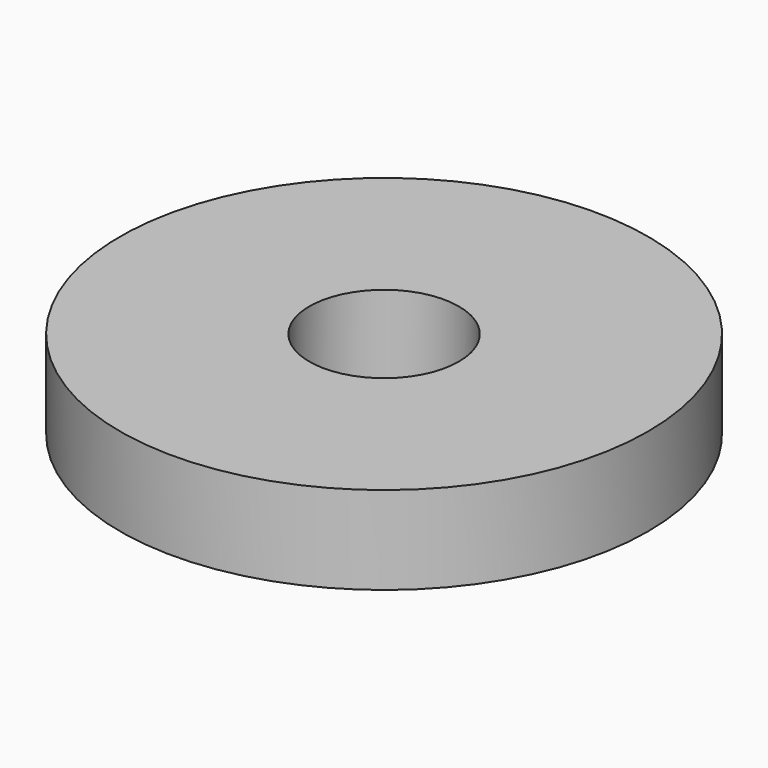
from build123d import *

# Parameters (mm, degrees)
SKETCH_R   = 6
SKETCH_R_2 = 1.7
PAD_DEPTH  = 2


with BuildPart() as part:
    # Sketch → Pad (new body)
    with BuildSketch(Plane.XY):
        Circle(SKETCH_R)
        Circle(SKETCH_R_2, mode=Mode.SUBTRACT)
    extrude(amount=PAD_DEPTH)


solid = part.part
